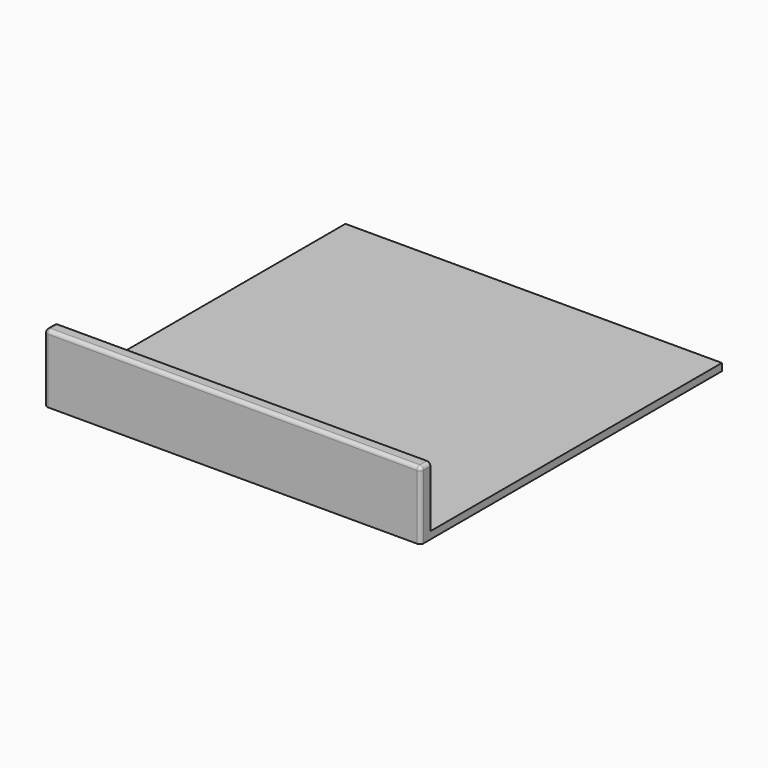
from build123d import *

# Parameters (mm, degrees)
F0_W     = 155
F0_H     = 5
F1_DEPTH = 28
F0_H_2   = 150
F2_DEPTH = 3
F3_R     = 1.5
F4_R     = 1.5


with BuildPart() as f1:
    # F0 (on Top) → F1 (new body)
    with BuildSketch(Plane.XY):
        with Locations((77.5, 2.5)):
            Rectangle(F0_W, F0_H)
    extrude(amount=F1_DEPTH)

    # F0 (on Top) → F2 (join)
    with BuildSketch(Plane.XY):
        with Locations((77.5, 2.5)):
            Rectangle(F0_W, F0_H)
        with Locations((77.5, 80)):
            Rectangle(F0_W, F0_H_2)
    extrude(amount=F2_DEPTH)

    # F3
    f3_edges = [f1.edges().sort_by_distance(p)[0] for p in [
        (77.5, 0, 28),
    ]]
    fillet(f3_edges, radius=F3_R)

    # F4
    f4_edges = [f1.edges().sort_by_distance(p)[0] for p in [
        (0, 0, 13.25),
        (155, 0, 13.25),
    ]]
    fillet(f4_edges, radius=F4_R)


solid = f1.part
